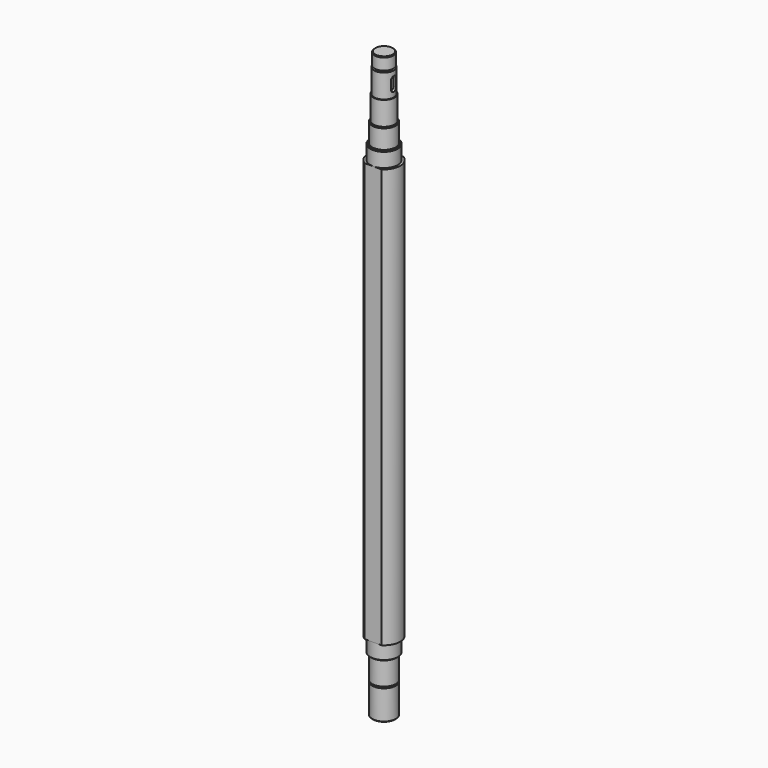
from build123d import *

# Parameters (mm, degrees)
F3_DEPTH = 621.001
F4_SIZE  = 1
F7_DEPTH = 6


with BuildPart() as f1:
    # F0 (on Front) → F1 (revolve)
    with BuildSketch(Plane.XZ):
        Polygon((12, 79.071932), (0, 79.071932), (0, -663.428068), (15, -663.428068), (15, -625.428068), (13, -625.428068), (13, -623.428068), (15, -623.428068), (15, -593.428068), (17.5, -593.428068), (17.5, -574.428068), (20.5, -574.428068), (20.5, -42.428068), (17.5, -42.428068), (17.5, -23.428068), (15, -23.428068), (15, 1.571932), (13.5, 1.571932), (13.5, 31.571932), (12.5, 31.571932), (12.5, 61.571932), (10, 61.571932), (10, 63.571932), (12, 63.571932), align=None)
    revolve(axis=Axis((0, 0, -292.178068), (0, 0, -1)))

    # F2 (on face) → F3 (cut, through all)
    with BuildSketch(Plane.XY.offset(-42.428068)):
        with BuildLine():
            ThreePointArc((10.677078, 17.5), (0, 20.5), (-10.677078, 17.5))
            Line((-10.677078, 17.5), (0, 17.5))
            Line((0, 17.5), (10.677078, 17.5))
        make_face()
        with BuildLine():
            Line((0, -17.5), (-10.677078, -17.5))
            ThreePointArc((-10.677078, -17.5), (0, -20.5), (10.677078, -17.5))
            Line((10.677078, -17.5), (0, -17.5))
        make_face()
    extrude(amount=-F3_DEPTH, mode=Mode.SUBTRACT)

    # F4
    f4_edges = [f1.edges().sort_by_distance(p)[0] for p in [
        (-15, 0, -663.428068),
        (-17.5, 0, -593.428068),
        (-12, 0, 79.071932),
        (-15, 0, 1.571932),
        (-17.5, 0, -23.428068),
    ]]
    chamfer(f4_edges, length=F4_SIZE)

    # F6 (on offset) → F7 (cut)
    with BuildSketch(Plane.YZ.offset(15)):
        with BuildLine():
            ThreePointArc((4, 51.571932), (0, 55.571932), (-4, 51.571932))
            Line((-4, 51.571932), (-4, 41.571932))
            ThreePointArc((-4, 41.571932), (0, 37.571932), (4, 41.571932))
            Line((4, 41.571932), (4, 51.571932))
        make_face()
    extrude(amount=-F7_DEPTH, mode=Mode.SUBTRACT)


solid = f1.part
